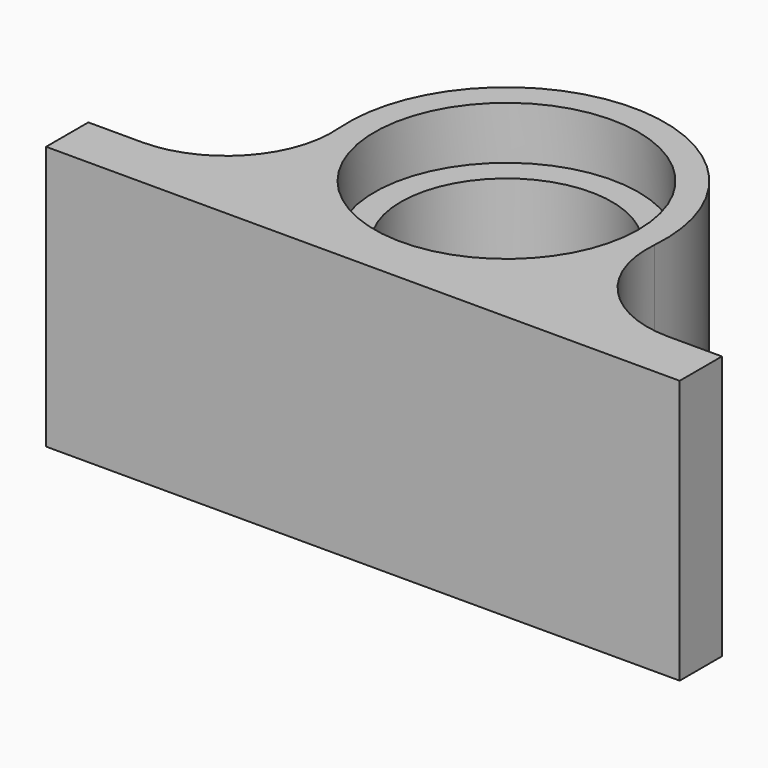
from build123d import *

# Parameters (mm, degrees)
F1_DEPTH       = 25
F2_R           = 10
F4_D           = 20
F4_DEPTH       = 22
F4_CBORE_D     = 25
F4_CBORE_DEPTH = 5
F4_TIP         = 6.0086061903


with BuildPart() as f1:
    # F0 (on Top) → F1 (new body)
    with BuildSketch(Plane.XY):
        with BuildLine():
            Line((9, -12), (-9, -12))
            ThreePointArc((-9, -12), (0, -15), (9, -12))
        make_face()
        with BuildLine():
            ThreePointArc((9, -12), (0, -15), (-9, -12))
            Line((-9, -12), (-30, -12))
            Line((-30, -12), (-30, -17))
            Line((-30, -17), (30, -17))
            Line((30, -17), (30, -12))
            Line((30, -12), (9, -12))
        make_face()
        with BuildLine():
            ThreePointArc((9, -12), (13.416407865, -6.7082039325), (15, 0))
            ThreePointArc((15, 0), (-6.7082039325, 13.416407865), (-9, -12))
            Line((-9, -12), (9, -12))
        make_face()
    extrude(amount=F1_DEPTH)

    # F2
    f2_edges = [f1.edges().sort_by_distance(p)[0] for p in [
        (-9, -12, 12.5),
        (9, -12, 12.5),
    ]]
    fillet(f2_edges, radius=F2_R)

    # F4
    with Locations(Plane.XY.offset(25)):
        with Locations((0, 0)):
            CounterBoreHole(F4_D / 2, F4_CBORE_D / 2, F4_CBORE_DEPTH, depth=F4_DEPTH)
            with Locations((0, 0, -(F4_DEPTH + F4_TIP / 2))):  # 118° drill point
                Cone(0, F4_D / 2, F4_TIP, mode=Mode.SUBTRACT)


solid = f1.part
